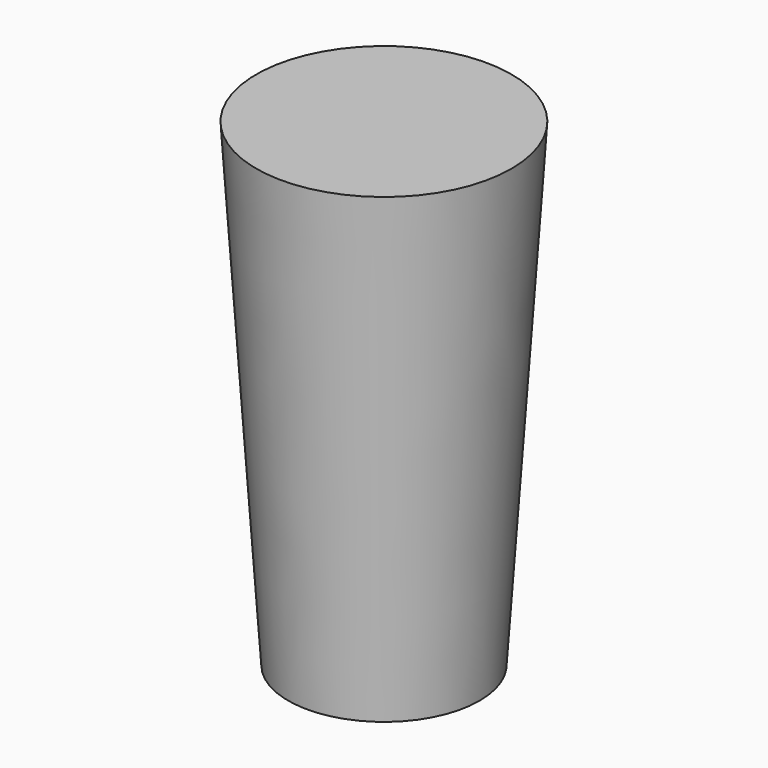
from build123d import *


with BuildPart() as part:
    # Cone → Cone (revolve)
    with BuildSketch(Plane.XZ):
        Polygon((0, 0), (3, 0), (4, 15), (0, 15), align=None)
    revolve(axis=Axis((0, 0, 0), (0, 0, 1)))


solid = part.part
